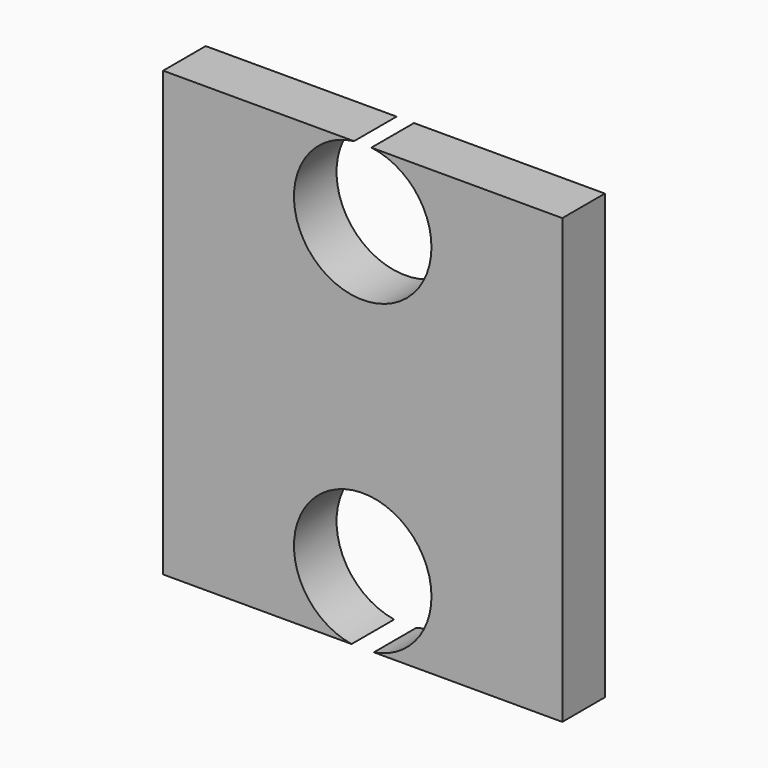
from build123d import *

# Parameters (mm, degrees)
F1_DEPTH = 3.048


with BuildPart() as f1:
    # F0 (on Front) → F1 (new body)
    with BuildSketch(Plane.XZ):
        with BuildLine():
            Line((11.43, -12.7), (11.43, 12.7))
            Line((11.43, 12.7), (0.498342, 12.7))
            ThreePointArc((0.498342, 12.7), (2.954822, 11.396397), (3.937, 8.794667))
            ThreePointArc((3.937, 8.794667), (-2.60173, 5.839846), (-0.498342, 12.7))
            Line((-0.498342, 12.7), (-11.43, 12.7))
            Line((-11.43, 12.7), (-11.43, -12.7))
            Line((-11.43, -12.7), (-0.638138, -12.7))
            ThreePointArc((-0.638138, -12.7), (-2.548295, -5.814035), (3.937, -8.815061))
            ThreePointArc((3.937, -8.815061), (3.001026, -11.363357), (0.638138, -12.7))
            Line((0.638138, -12.7), (11.43, -12.7))
        make_face()
    extrude(amount=F1_DEPTH)


solid = f1.part
